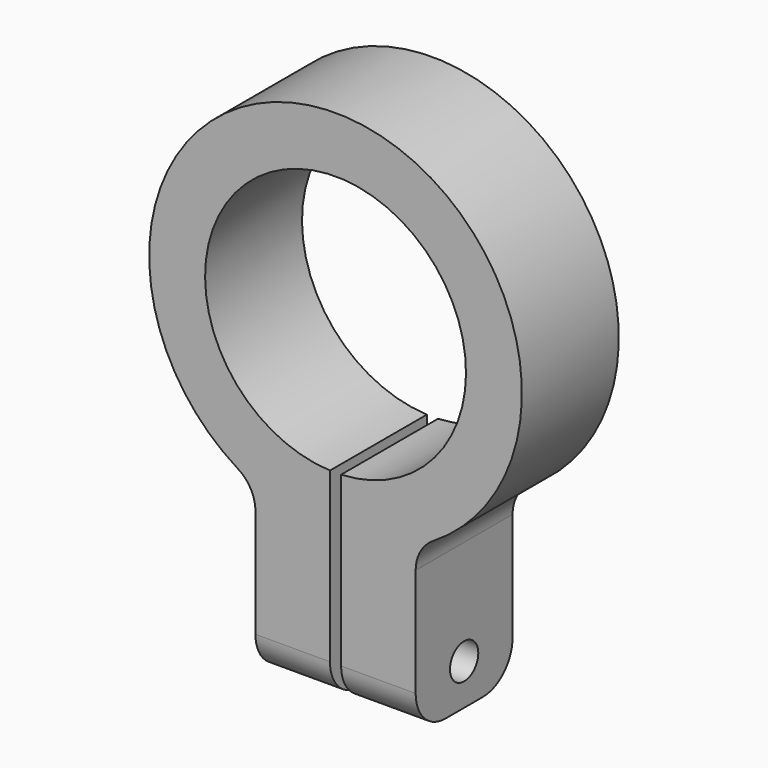
from build123d import *

# Parameters (mm, degrees)
F1_DEPTH = 6.5
F2_R     = 0.95
F3_DEPTH = 25
F4_R     = 2
F5_R     = 2


with BuildPart() as f1:
    # F0 (on Front) → F1 (new body)
    with BuildSketch(Plane.XZ):
        with BuildLine():
            Line((4.29925, -18.028646), (4.29925, -9.028646))
            ThreePointArc((4.29925, -9.028646), (0, 10), (-4.29925, -9.028646))
            Line((-4.29925, -9.028646), (-4.29925, -18.028646))
            Line((-4.29925, -18.028646), (-0.29925, -18.028646))
            Line((-0.29925, -18.028646), (-0.29925, -6.993601))
            ThreePointArc((-0.29925, -6.993601), (0, 7), (0.29925, -6.993601))
            Line((0.29925, -6.993601), (0.29925, -18.028646))
            Line((0.29925, -18.028646), (4.29925, -18.028646))
        make_face()
    extrude(amount=F1_DEPTH)

    # F2 (on face) → F3 (cut)
    with BuildSketch(Plane.YZ.offset(4.29925)):
        with Locations((-3.25, -15.828646)):
            Circle(F2_R)
    extrude(amount=-F3_DEPTH, mode=Mode.SUBTRACT)

    # F4
    f4_edges = [f1.edges().sort_by_distance(p)[0] for p in [
        (2.29925, 0, -18.028646),
        (-2.29925, 0, -18.028646),
        (2.29925, -6.5, -18.028646),
        (-2.29925, -6.5, -18.028646),
    ]]
    fillet(f4_edges, radius=F4_R)

    # F5
    f5_edges = [f1.edges().sort_by_distance(p)[0] for p in [
        (4.29925, -3.25, -9.028646),
        (-4.29925, -3.25, -9.028646),
    ]]
    fillet(f5_edges, radius=F5_R)


solid = f1.part
